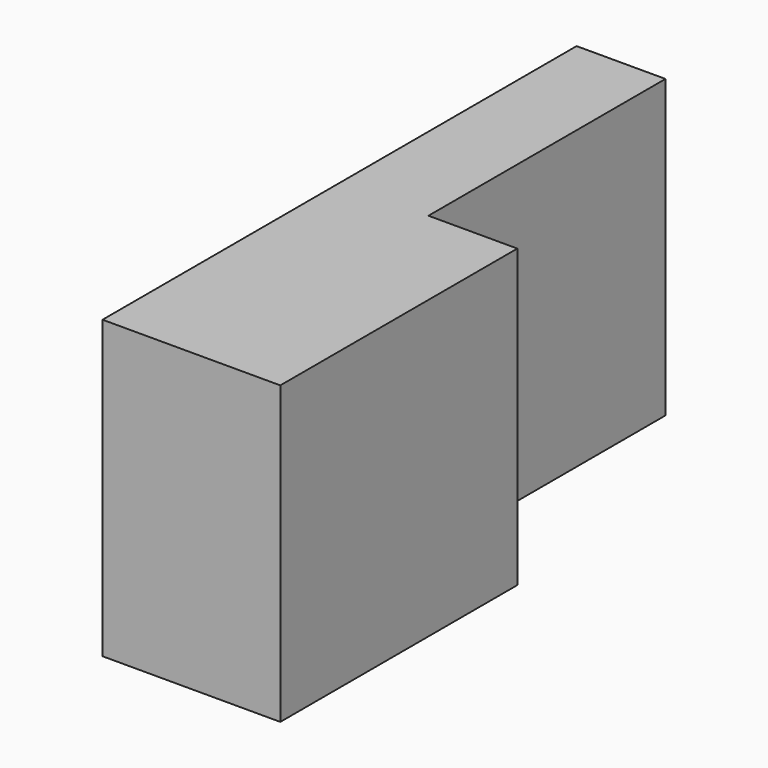
from build123d import *

# Parameters (mm, degrees)
F0_W     = 19.05
F0_H     = 63.5
F1_DEPTH = 127
F2_DEPTH = 63.5


with BuildPart() as f1:
    # F0 (on Front) → F1 (new body)
    with BuildSketch(Plane.XZ):
        with Locations((3.404015, -13.262132)):
            Rectangle(F0_W, F0_H)
        with Locations((22.454015, -13.262132)):
            Rectangle(F0_W, F0_H)
    extrude(amount=F1_DEPTH)

    # F0 (on Front) → F2 (cut)
    with BuildSketch(Plane.XZ):
        with Locations((22.454015, -13.262132)):
            Rectangle(F0_W, F0_H)
    extrude(amount=F2_DEPTH, mode=Mode.SUBTRACT)


solid = f1.part
